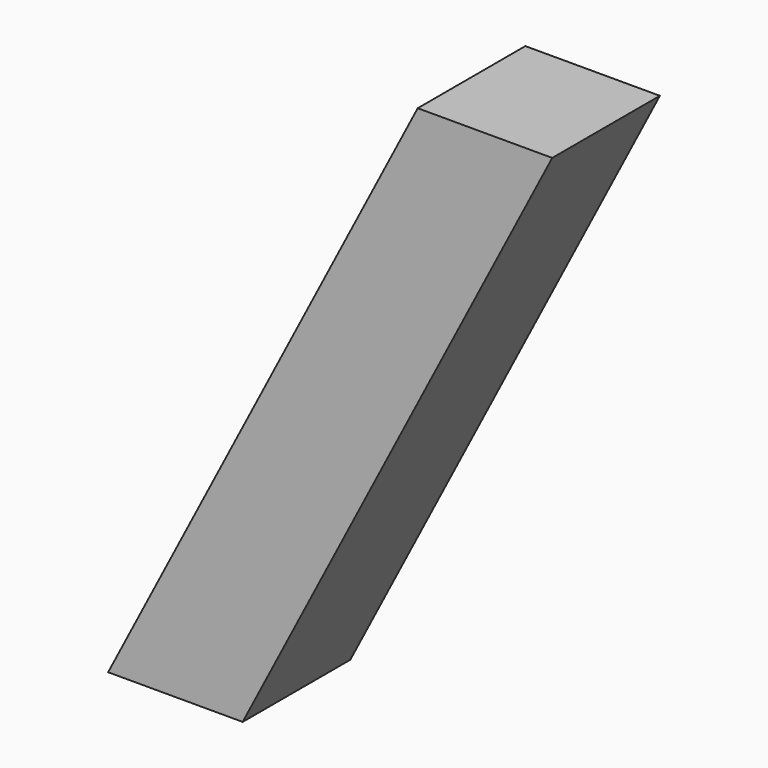
from build123d import *

# Parameters (mm, degrees)
F0_W = 40
F0_H = 40


with BuildPart() as f2:
    # F2: sweep along a path in F1
    with BuildLine(Plane.XZ) as f2_path:
        Line((0, 0), (92.042912, 177.561545))
    # F0 (on Top) → F2 (sweep)
    with BuildSketch(Plane.XY):
        Rectangle(F0_W, F0_H)
    sweep(path=f2_path.line)


solid = f2.part
